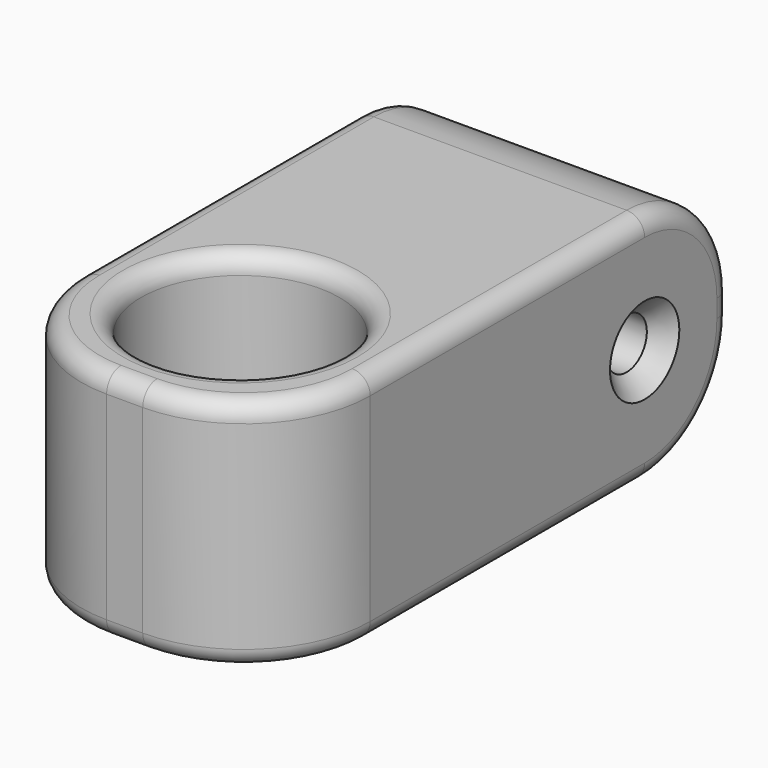
from build123d import *

# Parameters (mm, degrees)
CYLINDER008_R     = 5.5
CYLINDER008_DEPTH = 20
CYLINDER009_R     = 1.4
CYLINDER009_DEPTH = 20
BOX002_W          = 16
BOX002_H          = 32
BOX002_DEPTH      = 13
FILLET008_R       = 7
FILLET009_R       = 6
FILLET010_R       = 1
FILLET011_R       = 1
CHAMFER007_SIZE   = 1


with BuildPart() as cylinder:
    # Cylinder008 → Cylinder008 (new body)
    with BuildSketch(Plane.XY):
        Circle(CYLINDER008_R)
    extrude(amount=CYLINDER008_DEPTH)


with BuildPart() as fusion004:
    # Cylinder009 → Cylinder009 (new body)
    with BuildSketch(Plane(origin=(-10, 18, 6.5), x_dir=(0, 0, -1), z_dir=(1, 0, 0))):
        Circle(CYLINDER009_R)
    extrude(amount=CYLINDER009_DEPTH)

    # Fusion004: union Cylinder
    add(cylinder.part)


with BuildPart() as obj1:
    # Box002 → Box002 (new body)
    with BuildSketch(Plane(origin=(-8, -8, 0), x_dir=(1, 0, 0), z_dir=(0, 0, 1))):
        with Locations((8, 16)):
            Rectangle(BOX002_W, BOX002_H)
    extrude(amount=BOX002_DEPTH)

    # Fillet008
    fillet008_edges = [obj1.edges().sort_by_distance(p)[0] for p in [
        (-8, -8, 6.5),
        (8, -8, 6.5),
    ]]
    fillet(fillet008_edges, radius=FILLET008_R)

    # Fillet009
    fillet009_edges = [obj1.edges().sort_by_distance(p)[0] for p in [
        (0, 24, 13),
        (0, 24, 0),
    ]]
    fillet(fillet009_edges, radius=FILLET009_R)

    # Fillet010
    fillet010_edges = [obj1.edges().sort_by_distance(p)[0] for p in [
        (8, 8.5, 13),
    ]]
    fillet(fillet010_edges, radius=FILLET010_R)

    # Cut004: cut Fusion004
    add(fusion004.part, mode=Mode.SUBTRACT)

    # Fillet011
    fillet011_edges = [obj1.edges().sort_by_distance(p)[0] for p in [
        (-5.5, 0, 0),
        (-5.5, 0, 13),
    ]]
    fillet(fillet011_edges, radius=FILLET011_R)

    # Chamfer007
    chamfer007_edges = [obj1.edges().sort_by_distance(p)[0] for p in [
        (-8, 18, 7.9),
        (8, 18, 7.9),
    ]]
    chamfer(chamfer007_edges, length=CHAMFER007_SIZE)


solid = obj1.part
